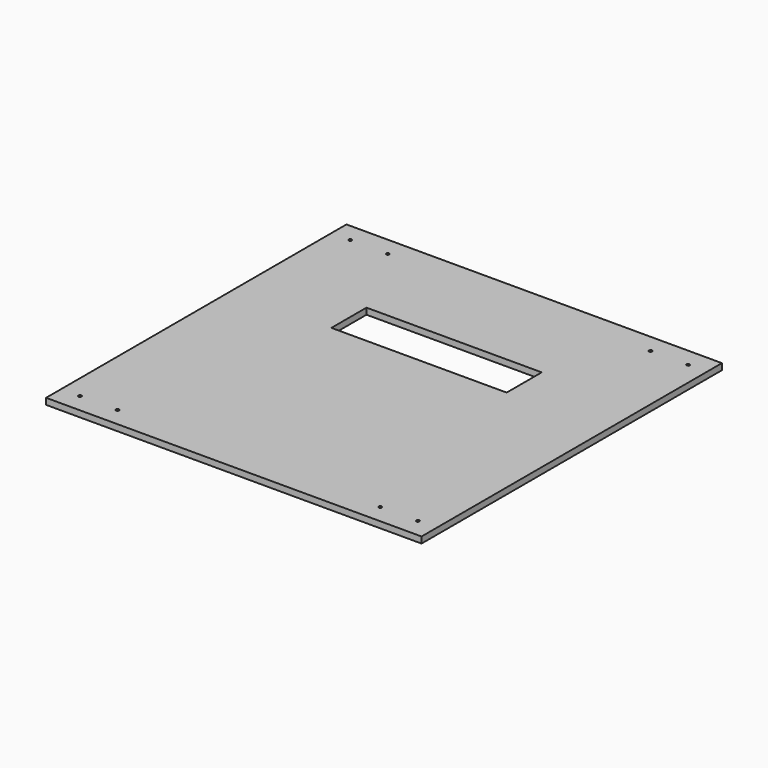
from build123d import *

# Parameters (mm, degrees)
F0_W     = 300
F0_H     = 300
F0_W_2   = 140
F0_H_2   = 35
F1_DEPTH = 5
F2_R     = 1.25
F3_DEPTH = 5.001


with BuildPart() as f1:
    # F0 (on Top) → F1 (new body)
    with BuildSketch(Plane.XY):
        Rectangle(F0_W, F0_H)
        with Locations((0, 52.5)):
            Rectangle(F0_W_2, F0_H_2, mode=Mode.SUBTRACT)
    extrude(amount=F1_DEPTH)

    # F2 (on face) → F3 (cut, through all)
    with BuildSketch(Plane.XY.offset(5)):
        with Locations((-135, 135)):
            Circle(F2_R)
        with Locations((135, 135)):
            Circle(F2_R)
        with Locations((-135, -135)):
            Circle(F2_R)
        with Locations((135, -135)):
            Circle(F2_R)
        with Locations((-105, -135)):
            Circle(F2_R)
        with Locations((105, -135)):
            Circle(F2_R)
        with Locations((105, 135)):
            Circle(F2_R)
        with Locations((-105, 135)):
            Circle(F2_R)
    extrude(amount=-F3_DEPTH, mode=Mode.SUBTRACT)


solid = f1.part
